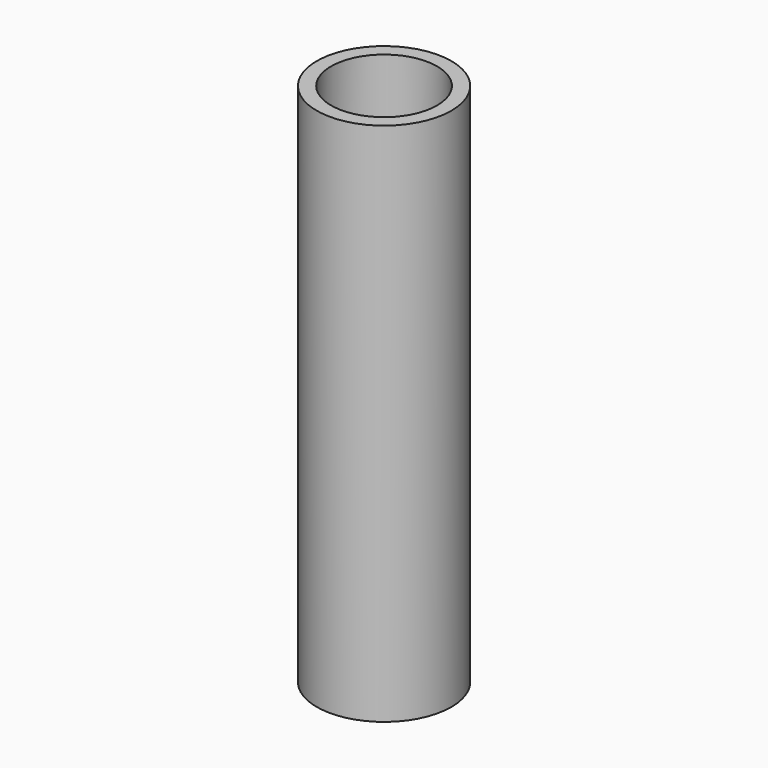
from build123d import *

# Parameters (mm, degrees)
F0_R        = 12.7
F0_R_2      = 10
F1_DEPTH    = 80
F2_R        = 10
F2_R_2      = 8.75
F3_DEPTH    = 67.056
F3_FACE_R   = 12.7
F3_FACE_R_2 = 8.75
F4_DEPTH    = 19.05


with BuildPart() as f1:
    # F0 (on Top) → F1 (new body)
    with BuildSketch(Plane.XY):
        Circle(F0_R)
        Circle(F0_R_2, mode=Mode.SUBTRACT)
    extrude(amount=F1_DEPTH)

    # F2 (on Top) → F3 (join)
    with BuildSketch(Plane.XY):
        Circle(F2_R)
        Circle(F2_R_2, mode=Mode.SUBTRACT)
    extrude(amount=F3_DEPTH)

    # F3_face (on face) → F4 (join)
    with BuildSketch(Plane(origin=(0, 0, 0), x_dir=(1, 0, 0), z_dir=(0, 0, -1))):
        Circle(F3_FACE_R)
        Circle(F3_FACE_R_2, mode=Mode.SUBTRACT)
    extrude(amount=F4_DEPTH)


solid = f1.part
